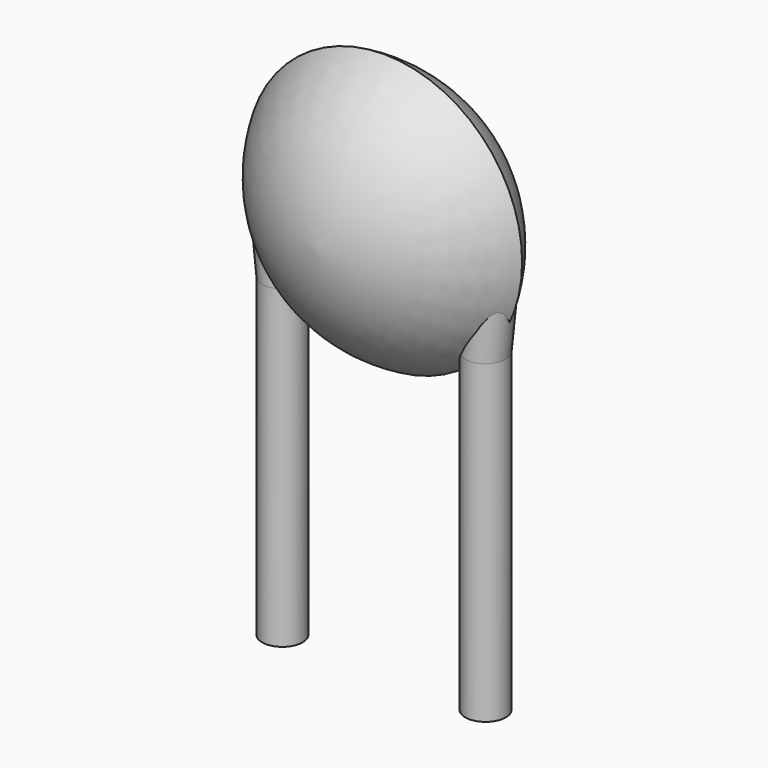
from build123d import *

# Parameters (mm, degrees)
SKETCH001_R       = 0.25
PAD001_DEPTH      = 0.68
PAD001_DEPTH_BACK = 3.2
SKETCH002_R       = 0.25
SKETCH003_R       = 0.25
SKETCH004_R       = 0.25
SKETCH005_R       = 0.25


with BuildPart() as pad001:
    # Sketch001 → Pad001 (new body, two sides)
    with BuildSketch(Plane.XY) as pad001_sk:
        Circle(SKETCH001_R)
        with Locations((2.5, 0)):
            Circle(SKETCH001_R)
    extrude(amount=PAD001_DEPTH)
    extrude(pad001_sk.sketch, amount=-PAD001_DEPTH_BACK)


with BuildPart() as revolution:
    # Sketch → Revolution (revolve)
    with BuildSketch(Plane.YZ.offset(1.25)):
        with BuildLine():
            Line((-1.05, 1.8), (1.05, 1.8))
            ThreePointArc((0, 0.1), (0.75089, 0.81048), (1.05, 1.8))
            ThreePointArc((-1.05, 1.8), (-0.75089, 0.81048), (0, 0.1))
        make_face()
    revolve(axis=Axis((1.25, -3.32079, 1.8), (0, 1, 0)))


with BuildPart() as loft_body:
    # Sketch002 → Loft section 0
    with BuildSketch(Plane.XY.offset(1.7)):
        with Locations((-0.11, 0)):
            Circle(SKETCH002_R)
    # Sketch003 → Loft section 1
    with BuildSketch(Plane.XY.offset(0.68)):
        Circle(SKETCH003_R)
    loft()


with BuildPart() as loft001:
    # Sketch004 → Loft001 section 0
    with BuildSketch(Plane.XY.offset(0.68)):
        with Locations((2.5, 0)):
            Circle(SKETCH004_R)
    # Sketch005 → Loft001 section 1
    with BuildSketch(Plane.XY.offset(1.7)):
        with Locations((2.61, 0)):
            Circle(SKETCH005_R)
    loft()


solid = Compound([pad001.part, revolution.part, loft_body.part, loft001.part])
